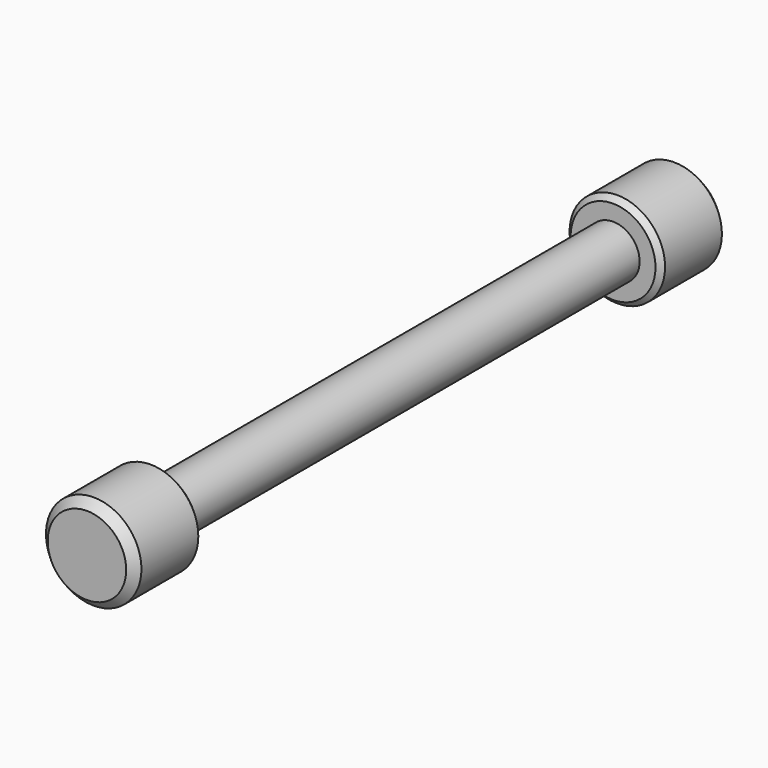
from build123d import *

# Parameters (mm, degrees)
F0_R     = 4.5
F0_R_2   = 2.5
F1_DEPTH = 35
F2_DEPTH = 27
F3_SIZE  = 0.8
F4_SIZE  = 0.5


with BuildPart() as f1:
    # F0 (on Front) → F1 (new body, symmetric)
    with BuildSketch(Plane.XZ):
        Circle(F0_R)
        Circle(F0_R_2, mode=Mode.SUBTRACT)
        Circle(F0_R_2)
    extrude(amount=F1_DEPTH, both=True)

    # F0 (on Front) → F2 (cut, symmetric)
    with BuildSketch(Plane.XZ):
        Circle(F0_R)
        Circle(F0_R_2, mode=Mode.SUBTRACT)
    extrude(amount=F2_DEPTH, both=True, mode=Mode.SUBTRACT)

    # F3
    f3_edges = [f1.edges().sort_by_distance(p)[0] for p in [
        (-4.5, 35, 0),
        (-4.5, -35, 0),
    ]]
    chamfer(f3_edges, length=F3_SIZE)

    # F4
    f4_edges = [f1.edges().sort_by_distance(p)[0] for p in [
        (-4.5, 27, 0),
        (-4.5, -27, 0),
    ]]
    chamfer(f4_edges, length=F4_SIZE)


solid = f1.part
